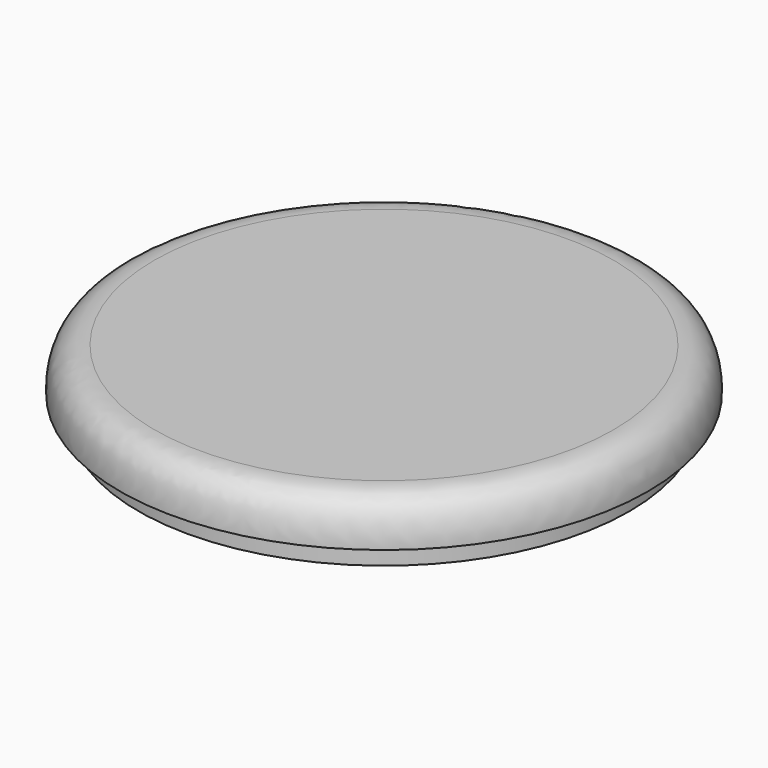
from build123d import *


with BuildPart() as f1:
    # F0 (on Front) → F1 (revolve)
    with BuildSketch(Plane.XZ):
        with BuildLine():
            Line((0, 16.0188824902), (0, 0))
            Line((0, 0), (59.0777732432, 0))
            Line((59.0777732432, 0), (59.0777732432, 5.6315143593))
            Line((59.0777732432, 5.6315143593), (63.5, 5.6315143593))
            add(Edge.make_bspline(
                [(63.5, 5.6315143593), (63.6019211188, 8.8490775017), (62.591711978, 13.7365353355), (58.6376608616, 16.194827859), (55.2525892854, 16.0188824902)],
                knots=[0, 0, 0, 0, 0.5106842452, 1, 1, 1, 1], degree=3))
            Line((55.2525892854, 16.0188824902), (0, 16.0188824902))
        make_face()
    revolve(axis=Axis((0, 0, 8.0094412451), (0, 0, 1)))


solid = f1.part
